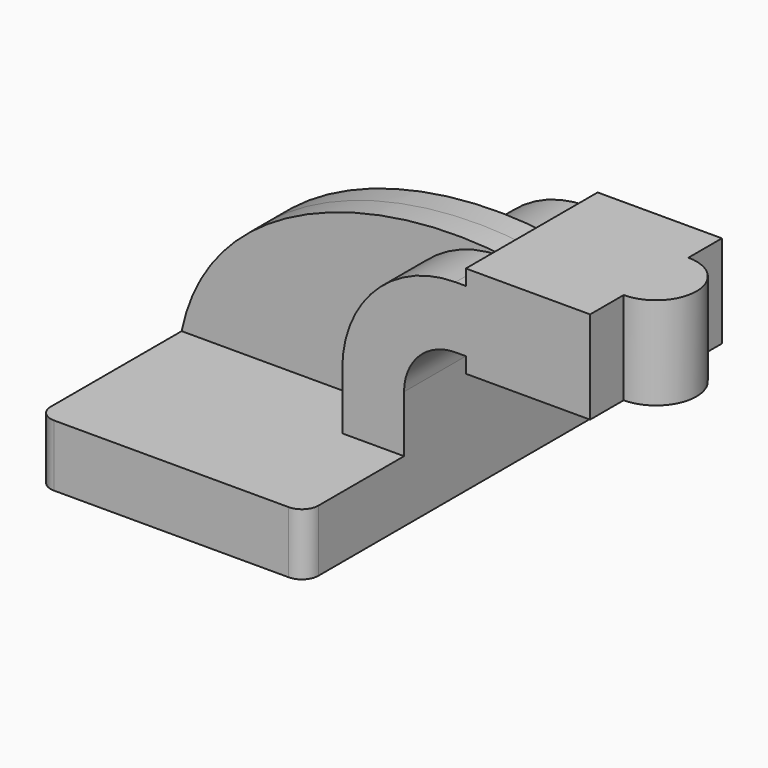
from build123d import *

# Parameters (mm, degrees)
F1_DEPTH = 63.5
F0_W     = 38.328622
F0_H     = 4.7498
F0_H_2   = 4.7752
F0_H_3   = 19.05
F2_DEPTH = 25.4
F3_DEPTH = 7.9375
F5_R     = 5.08


with BuildPart() as f1:
    # F0 (on Front) → F1 (new body, symmetric)
    with BuildSketch(Plane.XZ):
        Polygon((22.225, 9.525), (-41.275, 9.525), (-41.275, -9.525), (41.275, -9.525), (41.275, 9.525), align=None)
    extrude(amount=F1_DEPTH, both=True)

    # F0 (on Front) → F2 (join, symmetric)
    with BuildSketch(Plane.XZ):
        Polygon((22.225, 9.525), (-41.275, 9.525), (-41.275, -9.525), (41.275, -9.525), (41.275, 9.525), align=None)
        with Locations((79.489311, 64.3001)):
            Rectangle(F0_W, F0_H)
        with Locations((79.489311, 40.4876)):
            Rectangle(F0_W, F0_H_2)
        with BuildLine():
            Line((22.225, 27.0002), (22.225, 9.525))
            Line((22.225, 9.525), (41.275, 9.525))
            Line((41.275, 9.525), (41.275, 27.0002))
            ThreePointArc((41.275, 27.0002), (45.92468, 38.22552), (57.15, 42.8752))
            Line((57.15, 42.8752), (60.325, 42.8752))
            Line((60.325, 42.8752), (60.325, 61.9252))
            Line((60.325, 61.9252), (57.15, 61.9252))
            ThreePointArc((57.15, 61.9252), (32.454296, 51.695904), (22.225, 27.0002))
        make_face()
        with Locations((79.489311, 52.4002)):
            Rectangle(F0_W, F0_H_3)
    extrude(amount=F2_DEPTH, both=True)

    # F0 (on Front) → F3 (join, symmetric)
    with BuildSketch(Plane.XZ):
        with BuildLine():
            add(Edge.make_bspline(
                [(-41.275, 9.525), (-32.633623, 51.821707), (19.34902, 67.917436), (60.325, 61.9252)],
                knots=[0, 0, 0, 0, 114.316845, 114.316845, 114.316845, 114.316845], degree=3))
            Line((-41.275, 9.525), (22.225, 9.525))
            Line((22.225, 9.525), (22.225, 27.0002))
            ThreePointArc((22.225, 27.0002), (32.454296, 51.695904), (57.15, 61.9252))
            Line((57.15, 61.9252), (60.325, 61.9252))
        make_face()
    extrude(amount=F3_DEPTH, both=True)

    # F0 (on Front) → F4 (revolve)
    with BuildSketch(Plane.XZ):
        Polygon((98.653622, 66.675), (98.653622, 61.9252), (98.653622, 42.8752), (98.653622, 38.1), (111.125, 38.1), (111.125, 66.675), align=None)
    revolve(axis=Axis((98.653622, 0, 52.3875), (0, 0, 1)))

    # F5
    f5_edges = [f1.edges().sort_by_distance(p)[0] for p in [
        (-41.275, -63.5, 0),
        (41.275, -63.5, 0),
        (41.275, 63.5, 0),
        (-41.275, 63.5, 0),
    ]]
    fillet(f5_edges, radius=F5_R)


solid = f1.part
